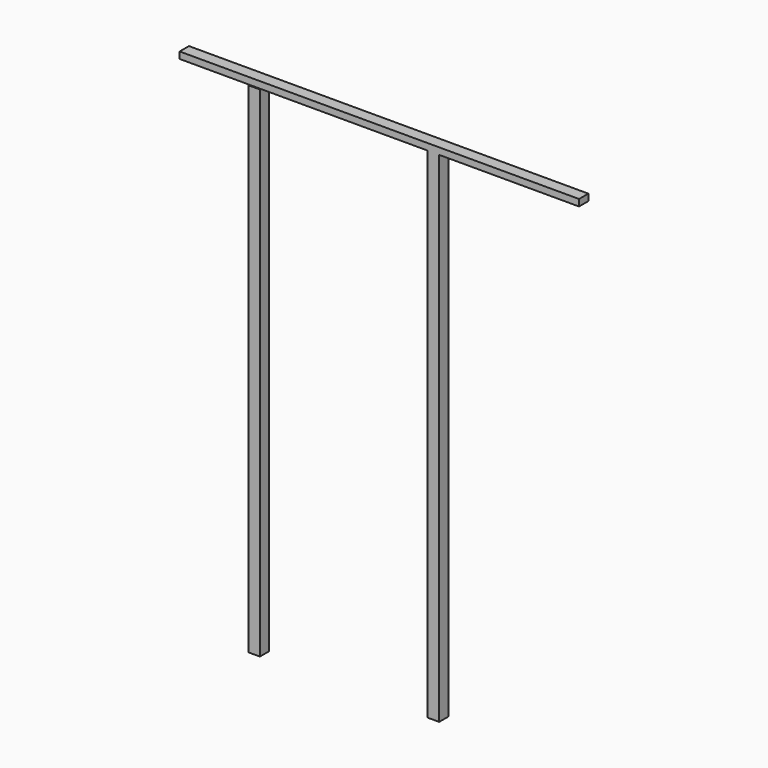
from build123d import *

# Parameters (mm, degrees)
F0_W     = 44.45
F0_H     = 1905
F1_DEPTH = 22.225


with BuildPart() as f1:
    # F0 (on Front) → F1 (new body, symmetric)
    with BuildSketch(Plane.XZ):
        with Locations((202.903606, -934.250364)):
            Rectangle(F0_W, F0_H)
        Polygon((758.852018, 43.544176), (-765.147982, 43.544176), (-765.147982, 18.249636), (180.678606, 18.249636), (225.128606, 18.249636), (758.852018, 18.249636), align=None)
        Polygon((-458.845004, -1889.722198), (-458.845004, -632.672131), (-458.845004, 15.277802), (-503.295004, 15.277802), (-503.295004, -1889.722198), align=None)
    extrude(amount=F1_DEPTH, both=True)


solid = f1.part
